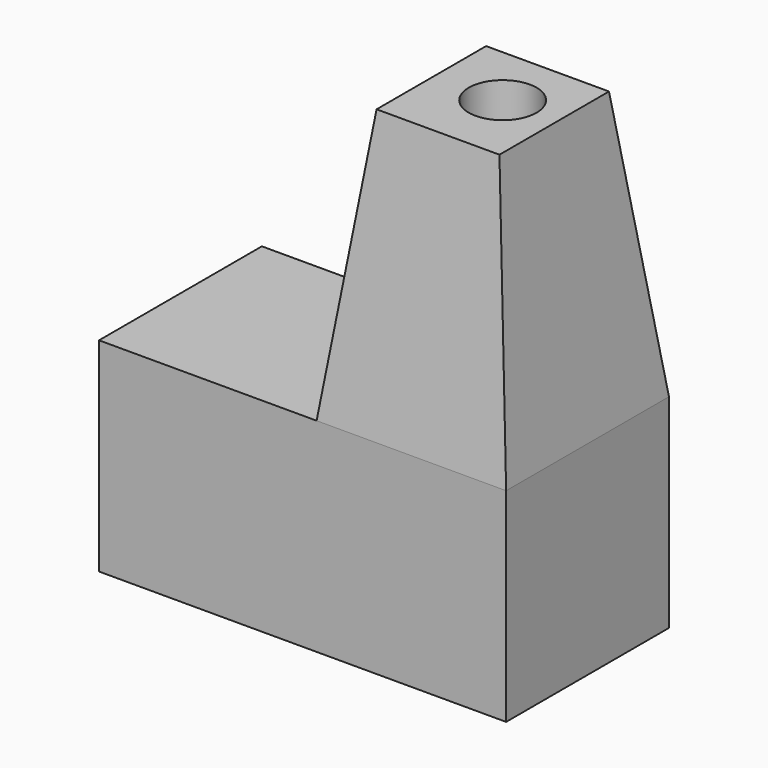
from build123d import *

# Parameters (mm, degrees)
F0_W     = 60
F0_H     = 30
F1_DEPTH = 30
F2_W     = 27.9342501611
F2_H     = 30
F3_DEPTH = 40
F3_TAPER = 7
F4_R     = 5
F5_DEPTH = 30


with BuildPart() as f1:
    # F0 (on Front) → F1 (new body)
    with BuildSketch(Plane.XZ):
        with Locations((-2.0657498389, 1.2521591907)):
            Rectangle(F0_W, F0_H)
    extrude(amount=F1_DEPTH)

    # F2 (on face) → F3 (join)
    with BuildSketch(Plane.XY.offset(16.2521591907)):
        with Locations((13.9671250805, -15)):
            Rectangle(F2_W, F2_H)
    extrude(amount=F3_DEPTH, taper=F3_TAPER)

    # F4 (on face) → F5 (cut)
    with BuildSketch(Plane.XY.offset(56.2521591907)):
        with Locations((14.8219978437, -14.2463846132)):
            Circle(F4_R)
    extrude(amount=-F5_DEPTH, mode=Mode.SUBTRACT)


solid = f1.part
